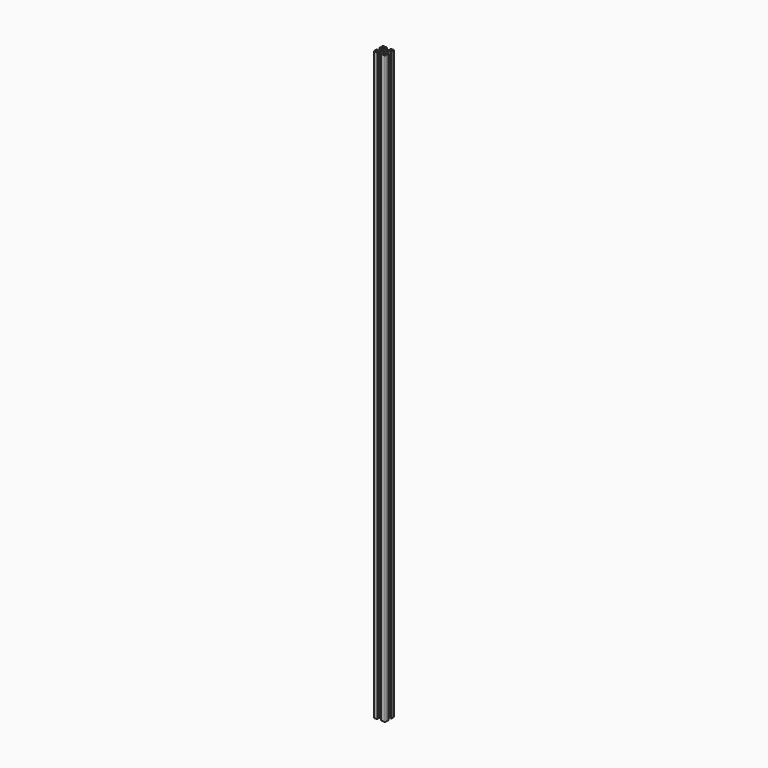
from build123d import *

# Parameters (mm, degrees)
CYLINDER_R             = 2.75
CYLINDER_DEPTH         = 1000
BOX_W                  = 2
BOX_H                  = 7.1
BOX_DEPTH              = 1000
BOX001_W               = 2
BOX001_H               = 7.1
BOX001_DEPTH           = 1000
FUSION_PLACEMENT_ANGLE = 45
PAD_DEPTH              = 1000
FILLET_R               = 1.5


with BuildPart() as cylinder:
    # Cylinder → Cylinder (new body)
    with BuildSketch(Plane.XY):
        Circle(CYLINDER_R)
    extrude(amount=CYLINDER_DEPTH)


with BuildPart() as cube:
    # Box → Box (new body)
    with BuildSketch(Plane(origin=(-1, -3.55, 0), x_dir=(1, 0, 0), z_dir=(0, 0, 1))):
        with Locations((1, 3.55)):
            Rectangle(BOX_W, BOX_H)
    extrude(amount=BOX_DEPTH)


with BuildPart() as fusion001:
    # Box001 → Box001 (new body)
    with BuildSketch(Plane(origin=(3.55, -1, 0), x_dir=(0, 1, 0), z_dir=(0, 0, 1))):
        with Locations((1, 3.55)):
            Rectangle(BOX001_W, BOX001_H)
    extrude(amount=BOX001_DEPTH)

    # Fusion: union Cube
    add(cube.part)


with BuildPart() as fusion001_1:
    # Fusion placement: moved
    add(fusion001.part.rotate(Axis((0, 0, 0), (0, 0, 1)), FUSION_PLACEMENT_ANGLE))

    # Fusion001: union Cylinder
    add(cylinder.part)


with BuildPart() as obj1:
    # Sketch → Pad (new body)
    with BuildSketch(Plane.XY):
        Polygon((-10, -10), (-3.1, -10), (-3.1, -8.5), (-7.1, -8.5), (-3.1, -4.5), (3.1, -4.5), (7.1, -8.5), (3.1, -8.5), (3.1, -10), (10, -10), (10, -3.1), (8.5, -3.1), (8.5, -7.1), (4.5, -3.1), (4.5, 3.1), (8.5, 7.1), (8.5, 3.1), (10, 3.1), (10, 10), (3.1, 10), (3.1, 8.5), (7.1, 8.5), (3.1, 4.5), (-3.1, 4.5), (-7.1, 8.5), (-3.1, 8.5), (-3.1, 10), (-10, 10), (-10, 3.1), (-8.5, 3.1), (-8.5, 7.1), (-4.5, 3.1), (-4.5, -3.1), (-8.5, -7.1), (-8.5, -3.1), (-10, -3.1), align=None)
    extrude(amount=PAD_DEPTH)

    # Cut: cut Fusion001
    add(fusion001_1.part, mode=Mode.SUBTRACT)

    # Fillet
    fillet_edges = [obj1.edges().sort_by_distance(p)[0] for p in [
        (10, -10, 500),
        (-10, -10, 500),
        (10, 10, 500),
        (-10, 10, 500),
    ]]
    fillet(fillet_edges, radius=FILLET_R)


solid = obj1.part
